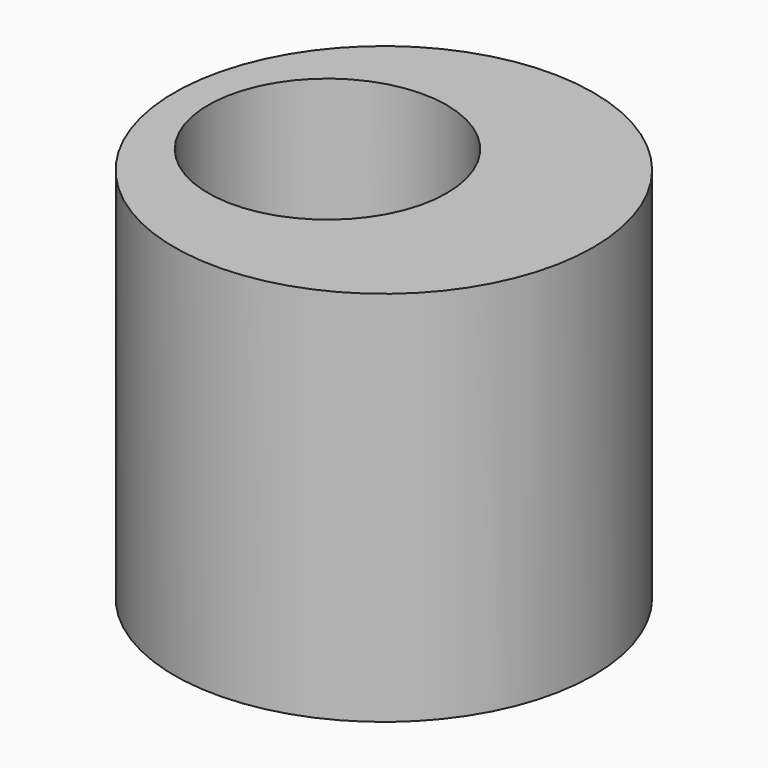
from build123d import *

# Parameters (mm, degrees)
F0_R        = 37.981107
F0_R_2      = 21.625719
F1_DEPTH    = 42.926
F1_FACE_R   = 37.981107
F1_FACE_R_2 = 21.625719
F2_DEPTH    = 14.224
F3_DEPTH    = 25.4


with BuildPart() as f1:
    # F0 (on Top) → F1 (new body)
    with BuildSketch(Plane.XY):
        Circle(F0_R)
        with Locations((-10.219174, 0)):
            Circle(F0_R_2, mode=Mode.SUBTRACT)
    extrude(amount=F1_DEPTH)

    # F1_face (on face) → F2 (cut)
    with BuildSketch(Plane(origin=(4.902302, 0, 42.926), x_dir=(1, 0, 0), z_dir=(0, 0, 1))):
        with Locations((-4.902302, 0)):
            Circle(F1_FACE_R)
        with Locations((-15.121476, 0)):
            Circle(F1_FACE_R_2, mode=Mode.SUBTRACT)
    extrude(amount=F2_DEPTH, mode=Mode.SUBTRACT)

    # F1_face (on face) → F3 (join)
    with BuildSketch(Plane(origin=(4.902302, 0, 42.926), x_dir=(1, 0, 0), z_dir=(0, 0, 1))):
        with Locations((-4.902302, 0)):
            Circle(F1_FACE_R)
        with Locations((-15.121476, 0)):
            Circle(F1_FACE_R_2, mode=Mode.SUBTRACT)
    extrude(amount=F3_DEPTH)


solid = f1.part
